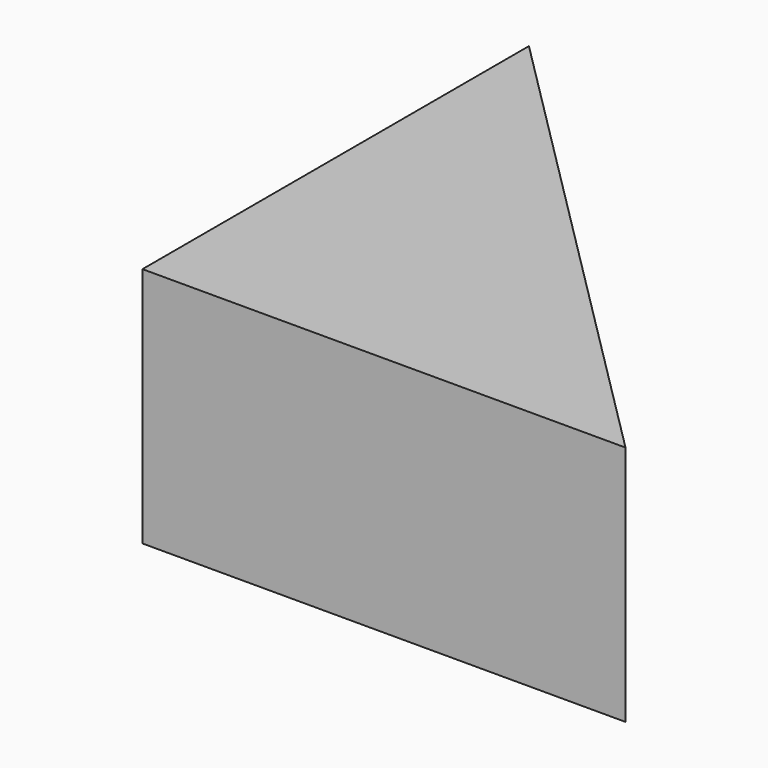
from build123d import *

# Parameters (mm, degrees)
F1_DEPTH = 14


with BuildPart() as f1:
    # F0 (on Top) → F1 (new body)
    with BuildSketch(Plane.XY):
        Polygon((0, 14), (0, 0), (14, 0), align=None)
        Polygon((-14, 0), (0, 0), (0, 14), (-14, 28), align=None)
    extrude(amount=F1_DEPTH)


solid = f1.part
